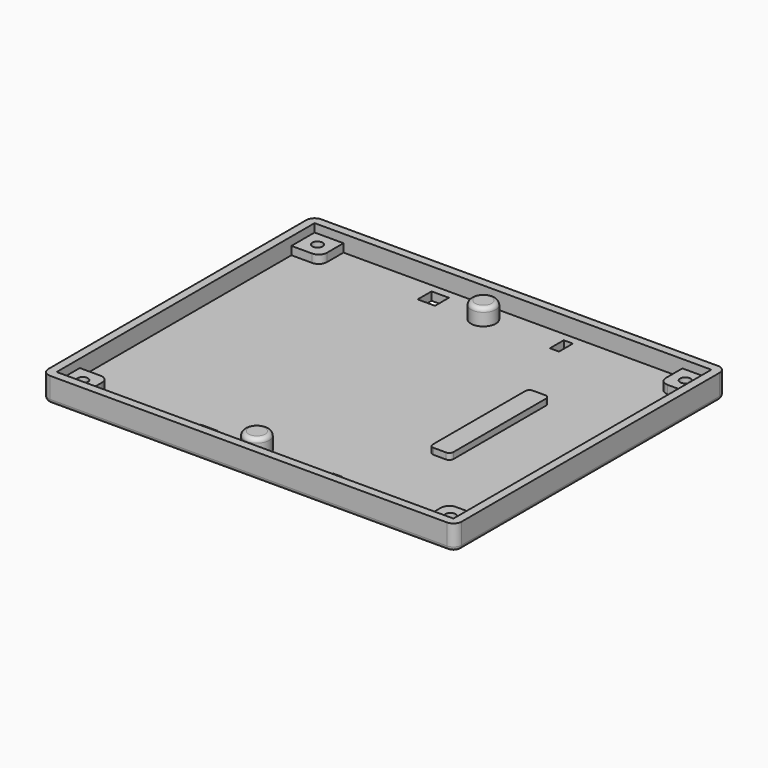
from build123d import *

# Parameters (mm, degrees)
F1_DEPTH  = 2
F2_W      = 96
F2_H      = 78
F3_DEPTH  = 4
F5_DEPTH  = 2
F6_R      = 1.25
F7_DEPTH  = 6
F8_R      = 2.25
F9_DEPTH  = 1.6
F11_R     = 1
F12_DEPTH = 1.5
F14_R     = 3
F15_DEPTH = 4
F16_R     = 1
F17_R     = 1.25
F18_DEPTH = 1
F19_R     = 0.75
F20_DEPTH = 4
F13_W     = 2.2
F13_H     = 4.2
F13_W_2   = 4.2
F21_W     = 4.2
F21_H     = 4.2
F22_DEPTH = 2


with BuildPart() as f1:
    # F0 (on Top) → F1 (new body)
    with BuildSketch(Plane.XY):
        with BuildLine():
            ThreePointArc((0, 2), (0.585786, 0.585786), (2, 0))
            Line((2, 0), (98, 0))
            ThreePointArc((98, 0), (99.414214, 0.585786), (100, 2))
            Line((100, 2), (100, 80))
            ThreePointArc((100, 80), (99.414214, 81.414214), (98, 82))
            Line((98, 82), (2, 82))
            ThreePointArc((2, 82), (0.585786, 81.414214), (0, 80))
            Line((0, 80), (0, 2))
        make_face()
    extrude(amount=F1_DEPTH)

    # F2 (on face) → F3 (join)
    with BuildSketch(Plane.XY.offset(2)):
        with BuildLine():
            ThreePointArc((2, 82), (0.585786, 81.414214), (0, 80))
            Line((0, 80), (0, 2))
            ThreePointArc((0, 2), (0.585786, 0.585786), (2, 0))
            Line((2, 0), (98, 0))
            ThreePointArc((98, 0), (99.414214, 0.585786), (100, 2))
            Line((100, 2), (100, 80))
            ThreePointArc((100, 80), (99.414214, 81.414214), (98, 82))
            Line((98, 82), (2, 82))
        make_face()
        with Locations((50, 41)):
            Rectangle(F2_W, F2_H, mode=Mode.SUBTRACT)
    extrude(amount=F3_DEPTH)

    # F4 (on face) → F5 (join)
    with BuildSketch(Plane.XY.offset(2)):
        with BuildLine():
            Line((2, 9), (2, 2))
            Line((2, 2), (9, 2))
            Line((9, 2), (9, 7))
            ThreePointArc((9, 7), (8.414214, 8.414214), (7, 9))
            Line((7, 9), (2, 9))
        make_face()
        with BuildLine():
            Line((9, 80), (2, 80))
            Line((2, 80), (2, 73))
            Line((2, 73), (7, 73))
            ThreePointArc((7, 73), (8.414214, 73.585786), (9, 75))
            Line((9, 75), (9, 80))
        make_face()
        with BuildLine():
            Line((91, 2), (98, 2))
            Line((98, 2), (98, 9))
            Line((98, 9), (93, 9))
            ThreePointArc((93, 9), (91.585786, 8.414214), (91, 7))
            Line((91, 7), (91, 2))
        make_face()
        with BuildLine():
            Line((98, 73), (98, 80))
            Line((98, 80), (91, 80))
            Line((91, 80), (91, 75))
            ThreePointArc((91, 75), (91.585786, 73.585786), (93, 73))
            Line((93, 73), (98, 73))
        make_face()
    extrude(amount=F5_DEPTH)

    # F6 (on face) → F7 (cut)
    with BuildSketch(Plane(origin=(0, 0, 0), x_dir=(1, 0, 0), z_dir=(0, 0, -1))):
        with Locations((94.5, -5.5)):
            Circle(F6_R)
        with Locations((94.5, -76.5)):
            Circle(F6_R)
        with Locations((5.5, -76.5)):
            Circle(F6_R)
        with Locations((5.5, -5.5)):
            Circle(F6_R)
    extrude(amount=-F7_DEPTH, mode=Mode.SUBTRACT)

    # F8 (on face) → F9 (cut)
    with BuildSketch(Plane(origin=(0, 0, 0), x_dir=(1, 0, 0), z_dir=(0, 0, -1))):
        with Locations((5.5, -76.5)):
            Circle(F8_R)
        with Locations((5.5, -5.5)):
            Circle(F8_R)
        with Locations((94.5, -5.5)):
            Circle(F8_R)
        with Locations((94.5, -76.5)):
            Circle(F8_R)
    extrude(amount=-F9_DEPTH, mode=Mode.SUBTRACT)

    # F11
    f11_edges = [f1.edges().sort_by_distance(p)[0] for p in [
        (50, 82, 0),
    ]]
    fillet(f11_edges, radius=F11_R)

    # F10 (on face) → F12 (join)
    with BuildSketch(Plane.XY.offset(2)):
        with BuildLine():
            ThreePointArc((73, 27), (73.292893, 26.292893), (74, 26))
            Line((74, 26), (77, 26))
            ThreePointArc((77, 26), (77.707107, 26.292893), (78, 27))
            Line((78, 27), (78, 55))
            ThreePointArc((78, 55), (77.707107, 55.707107), (77, 56))
            Line((77, 56), (74, 56))
            ThreePointArc((74, 56), (73.292893, 55.707107), (73, 55))
            Line((73, 55), (73, 27))
        make_face()
    extrude(amount=F12_DEPTH)

    # F14 (on face) → F15 (join)
    with BuildSketch(Plane.XY.offset(2)):
        with Locations((46.65, 75.25)):
            Circle(F14_R)
        with Locations((46.65, 6.75)):
            Circle(F14_R)
    extrude(amount=F15_DEPTH)

    # F16
    f16_edges = [f1.edges().sort_by_distance(p)[0] for p in [
        (43.65, 75.25, 6),
        (43.65, 6.75, 6),
    ]]
    fillet(f16_edges, radius=F16_R)

    # F17 (on face) → F18 (cut)
    with BuildSketch(Plane(origin=(0, 0, 0), x_dir=(1, 0, 0), z_dir=(0, 0, -1))):
        with Locations((46.65, -75.25)):
            Circle(F17_R)
        with Locations((46.65, -6.75)):
            Circle(F17_R)
    extrude(amount=-F18_DEPTH, mode=Mode.SUBTRACT)

    # F19 (on face) → F20 (cut)
    with BuildSketch(Plane(origin=(0, 0, 1), x_dir=(1, 0, 0), z_dir=(0, 0, -1))):
        with Locations((46.65, -6.75)):
            Circle(F19_R)
        with Locations((46.65, -75.25)):
            Circle(F19_R)
    extrude(amount=-F20_DEPTH, mode=Mode.SUBTRACT)

    # F13 (on face) + F21 (on face) → F22 (cut)
    with BuildSketch(Plane.XY.offset(2)):
        with Locations((65, 75.9)):
            Rectangle(F13_W, F13_H)
        with Locations((65, 6.1)):
            Rectangle(F13_W, F13_H)
        with Locations((34, 6.1)):
            Rectangle(F13_W_2, F13_H)
    with BuildSketch(Plane.XY.offset(2)):
        with Locations((34, 75.9)):
            Rectangle(F21_W, F21_H)
    extrude(amount=-F22_DEPTH, mode=Mode.SUBTRACT)


solid = f1.part
